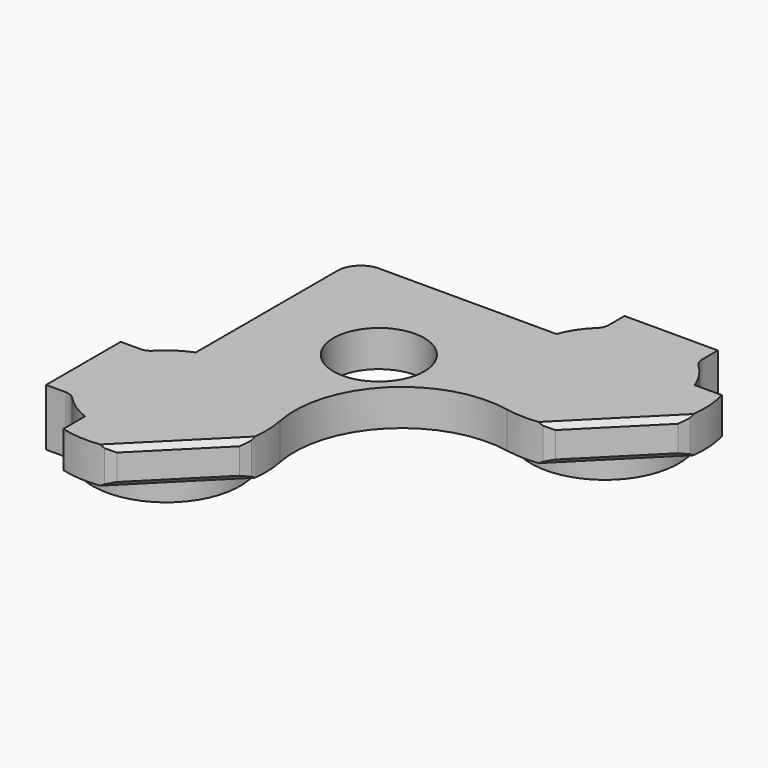
from build123d import *

# Parameters (mm, degrees)
SKETCH493_R     = 0.875
PAD402_DEPTH    = 1
POCKET036_DEPTH = 1.3
PAD_DEPTH       = 0.9
POCKET_DEPTH    = 2.5
CHAMFER_SIZE    = 0.1


with BuildPart() as part:
    # Sketch493 → Pad402 (new body, symmetric)
    with BuildSketch(Plane(origin=(50, -50, 0.5), x_dir=(1, 0, 0), z_dir=(0, 0, 1))):
        with BuildLine():
            Line((-53.3, 47.9), (-53.3, 46.1))
            Line((-53.3, 46.1), (-52.917836, 46.1))
            ThreePointArc((-52.73607, 46.021642), (-52.818868, 46.079576), (-52.917836, 46.1))
            ThreePointArc((-52.73607, 46.021642), (-52.488396, 45.812963), (-52.2, 45.665599))
            Line((-52.2, 45.665599), (-52.2, 45.141069))
            ThreePointArc((-52.2, 45.141069), (-50.38471, 45.594427), (-49.812013, 47.375671))
            ThreePointArc((-47.375671, 49.812013), (-49.245018, 49.245018), (-49.812013, 47.375671))
            ThreePointArc((-47.375671, 49.812013), (-45.594427, 50.38471), (-45.141069, 52.2))
            Line((-45.665599, 52.2), (-45.141069, 52.2))
            ThreePointArc((-45.665599, 52.2), (-45.812963, 52.488396), (-46.021642, 52.73607))
            ThreePointArc((-46.1, 52.917836), (-46.079576, 52.818868), (-46.021642, 52.73607))
            Line((-46.1, 53.3), (-46.1, 52.917836))
            Line((-47.9, 53.3), (-46.1, 53.3))
            Line((-47.9, 53.3), (-47.9, 52.917836))
            ThreePointArc((-47.978358, 52.73607), (-47.920424, 52.818868), (-47.9, 52.917836))
            ThreePointArc((-47.978358, 52.73607), (-48.187037, 52.488396), (-48.334401, 52.2))
            Line((-48.334401, 52.2), (-51.75, 52.2))
            ThreePointArc((-51.75, 52.2), (-52.068198, 52.068198), (-52.2, 51.75))
            Line((-52.2, 51.75), (-52.2, 48.334401))
            ThreePointArc((-52.2, 48.334401), (-52.488396, 48.187037), (-52.73607, 47.978358))
            ThreePointArc((-52.917836, 47.9), (-52.818868, 47.920424), (-52.73607, 47.978358))
            Line((-52.917836, 47.9), (-53.3, 47.9))
        make_face()
        with Locations((-50, 50)):
            Circle(SKETCH493_R, mode=Mode.SUBTRACT)
    extrude(amount=PAD402_DEPTH, both=True)

    # Sketch494 → Pocket036 (cut)
    with BuildSketch(Plane(origin=(50, -50, 1.5), x_dir=(1, 0, 0), z_dir=(0, 0, 1))):
        with BuildLine():
            Line((0, 0), (-100, 0))
            Line((-100, 0), (-100, 51.8))
            ThreePointArc((-51.8, 100), (-85.882547, 85.882547), (-100, 51.8))
            Line((-51.8, 100), (0, 100))
            Line((0, 100), (0, 0))
        make_face()
    extrude(amount=-POCKET036_DEPTH, mode=Mode.SUBTRACT)

    # Sketch497 → Pad (join)
    with BuildSketch(Plane(origin=(50, -50, 0), x_dir=(1, 0, 0), z_dir=(0, 0, 1))):
        with BuildLine():
            Line((-53.3, 47.9), (-53.3, 46.1))
            Line((-53.3, 46.1), (-52.917836, 46.1))
            ThreePointArc((-52.73607, 46.021642), (-52.818868, 46.079576), (-52.917836, 46.1))
            ThreePointArc((-52.73607, 46.021642), (-50.275, 47), (-52.73607, 47.978358))
            ThreePointArc((-52.917836, 47.9), (-52.818868, 47.920424), (-52.73607, 47.978358))
            Line((-52.917836, 47.9), (-53.3, 47.9))
        make_face()
        with BuildLine():
            Line((-46.1, 53.3), (-46.1, 52.917836))
            ThreePointArc((-46.1, 52.917836), (-46.079576, 52.818868), (-46.021642, 52.73607))
            ThreePointArc((-47.978358, 52.73607), (-47, 50.275), (-46.021642, 52.73607))
            ThreePointArc((-47.978358, 52.73607), (-47.920424, 52.818868), (-47.9, 52.917836))
            Line((-47.9, 53.3), (-47.9, 52.917836))
            Line((-47.9, 53.3), (-46.1, 53.3))
        make_face()
    extrude(amount=-PAD_DEPTH)

    # Sketch → Pocket (cut, symmetric)
    with BuildSketch(Plane(origin=(50, -50, 0), x_dir=(1, 0, 0), z_dir=(0, 0, 1))):
        Polygon((-52.2, 44.2), (-44.2, 52.2), (-42, 52.2), (-52.2, 42), align=None)
    extrude(amount=POCKET_DEPTH, both=True, mode=Mode.SUBTRACT)

    # Chamfer
    chamfer_edges = [part.edges().sort_by_distance(p)[0] for p in [
        (4.15, 0.55, 0.2),
        (4.878226, 1.278226, -0.15),
        (4.15, 0.55, -0.5),
        (3.421774, -0.178226, -0.15),
        (-0.55, -4.15, 0.2),
        (0.178226, -3.421774, -0.15),
        (-0.55, -4.15, -0.5),
        (-1.278226, -4.878226, -0.15),
    ]]
    chamfer(chamfer_edges, length=CHAMFER_SIZE)


solid = part.part
